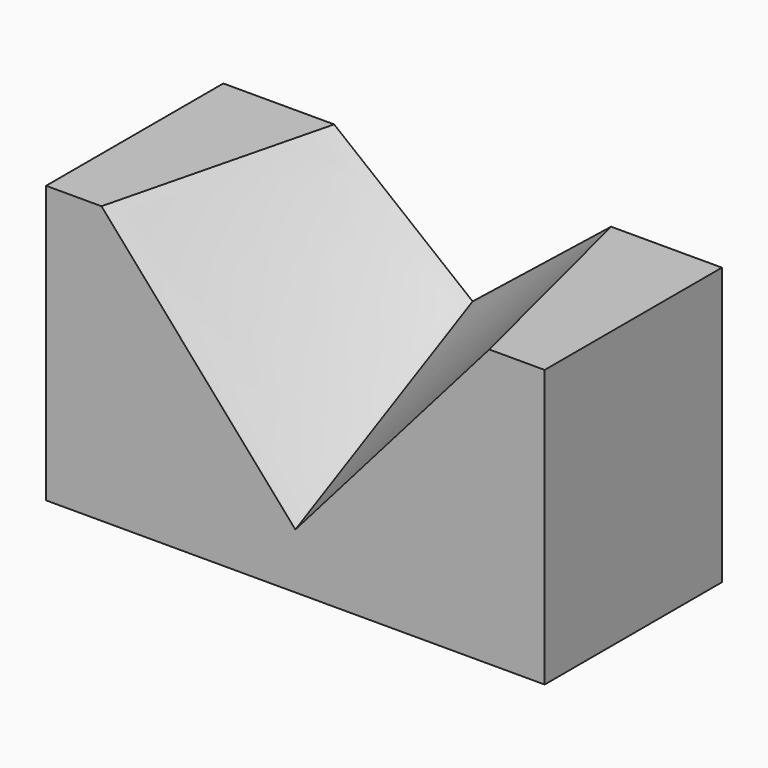
from build123d import *

# Parameters (mm, degrees)
F0_W     = 57.15
F0_H     = 31.75
F1_DEPTH = 25.4


with BuildPart() as f1:
    # F0 (on Front) → F1 (new body)
    with BuildSketch(Plane.XZ):
        with Locations((28.575, 15.875)):
            Rectangle(F0_W, F0_H)
    extrude(amount=F1_DEPTH)

    # F4 (on offset) → F5 section 0
    with BuildSketch(Plane.XZ.offset(25.4)):
        Polygon((50.8, 31.75), (6.35, 31.75), (28.575, 6.35), align=None)
    # F2 (on Front) → F5 section 1
    with BuildSketch(Plane.XZ):
        Polygon((44.45, 31.75), (12.7, 31.75), (28.575, 19.05), align=None)
    loft(mode=Mode.SUBTRACT)


solid = f1.part
